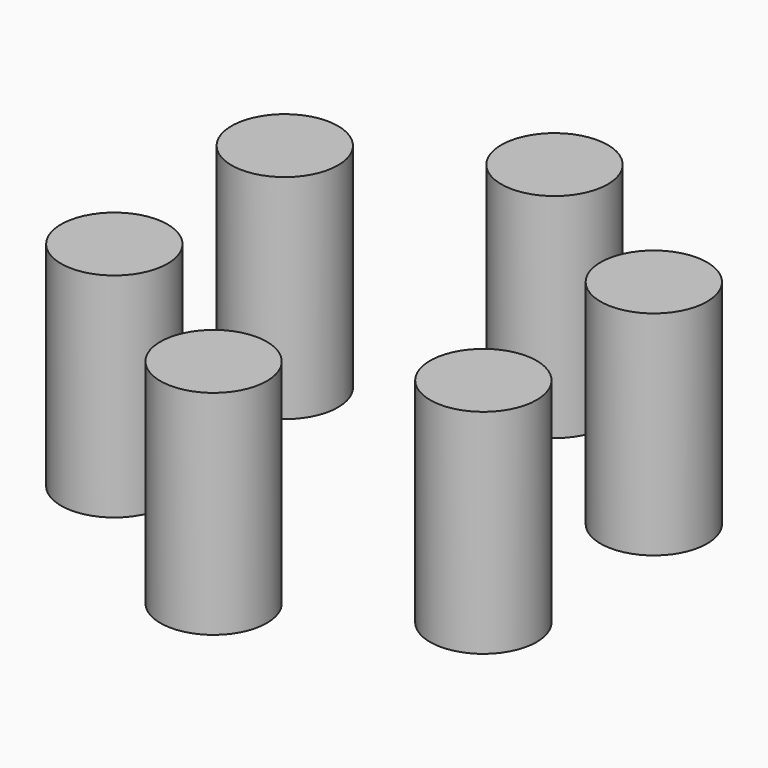
from build123d import *

# Parameters (mm, degrees)
F0_R     = 6.35
F1_DEPTH = 25.4


with BuildPart() as f1:
    # F0 (on Top) → F1 (new body)
    with BuildSketch(Plane.XY):
        with Locations((0, 25.4)):
            Circle(F0_R)
        with Locations((-21.997045, -12.7)):
            Circle(F0_R)
        with Locations((21.997045, -12.7)):
            Circle(F0_R)
        with Locations((21.997045, 12.7)):
            Circle(F0_R)
        with Locations((-21.997045, 12.7)):
            Circle(F0_R)
        with Locations((0, -25.4)):
            Circle(F0_R)
    extrude(amount=F1_DEPTH)


solid = f1.part
